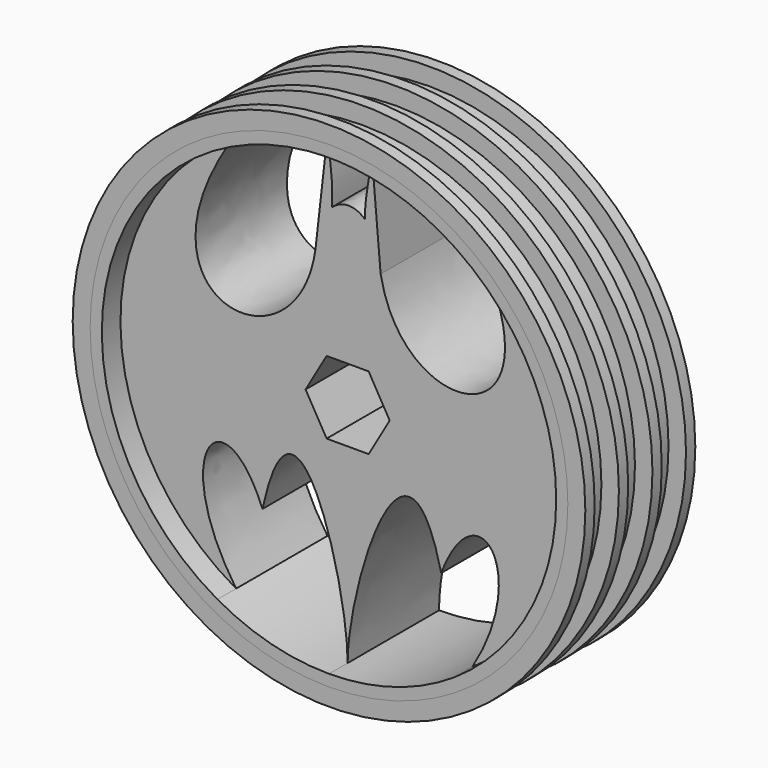
from build123d import *

# Parameters (mm, degrees)
F1_DEPTH    = 12.446
F0_R        = 27.94
F0_R_2      = 26.035
F2_DEPTH    = 1.27
F3_START    = 4.572
F3_DEPTH    = 1.27
F4_DEPTH    = 14.986
F5_START    = 3.302
F3_FACE_R   = 27.94
F3_FACE_R_2 = 26.035
F5_DEPTH    = 1.27
F6_START    = 3.302
F5_FACE_R   = 27.94
F5_FACE_R_2 = 26.035
F6_DEPTH    = 1.27


with BuildPart() as f1:
    # F0 (on Front) → F1 (new body)
    with BuildSketch(Plane.XZ):
        with BuildLine():
            ThreePointArc((13.6006918445, -20.6960480854), (21.7959441012, -11.7576377617), (24.765, 0))
            ThreePointArc((24.765, 0), (21.8531100927, 11.6510430553), (13.8022053886, 20.5622068712))
            add(Edge.make_bspline(
                [(3.5946532153, 13.7332966551), (6.1344653368, 0), (24.5575599352, 3.1986676959), (13.8022053886, 20.5622068712)],
                knots=[0, 0, 0, 0, 12.281210694, 12.281210694, 12.281210694, 12.281210694], degree=3))
            Line((3.5946532153, 13.7332966551), (2.6568462787, 24.6220712543))
            add(Edge.make_bspline(
                [(1.9077589968, 18.4080451727), (1.7903919725, 19.9296433051), (2.2836191988, 22.1618624223), (2.6568462787, 24.6220712543)],
                knots=[0, 0, 0, 0, 6.2590136522, 6.2590136522, 6.2590136522, 6.2590136522], degree=3))
            add(Edge.make_bspline(
                [(-1.729455471, 18.4080451727), (-0.5628003568, 19.4185874348), (0.7936018965, 19.4185874348), (1.9077589968, 18.4080451727)],
                knots=[0, 0, 0, 0, 3.6372144678, 3.6372144678, 3.6372144678, 3.6372144678], degree=3))
            add(Edge.make_bspline(
                [(-2.2722058795, 24.6605414669), (-1.624097682, 22.0808679479), (-1.668083219, 19.9862412159), (-1.729455471, 18.4080451727)],
                knots=[0, 0, 0, 0, 6.2760089161, 6.2760089161, 6.2760089161, 6.2760089161], degree=3))
            Line((-2.2722058795, 24.6605414669), (-3.5168223549, 13.7332966551))
            add(Edge.make_bspline(
                [(-12.6788294364, 21.2732815786), (-24.615090707, 2.7207599098), (-5.5486722849, 0), (-3.5168223549, 13.7332966551)],
                knots=[0, 0, 0, 0, 11.8656540658, 11.8656540658, 11.8656540658, 11.8656540658], degree=3))
            ThreePointArc((-12.6788294364, 21.2732815786), (-24.7631711255, -0.3009664626), (-12.1580585301, -21.5751439805))
            add(Edge.make_bspline(
                [(-12.1580585301, -21.5751439805), (-19.8026022482, -10.3666265985), (-13.557408005, -2.4443626793), (-9.2811435461, -12.9933617467)],
                knots=[0, 0, 0, 0, 9.0511671145, 9.0511671145, 9.0511671145, 9.0511671145], degree=3))
            add(Edge.make_bspline(
                [(-9.2811435461, -12.9933617467), (-5.7175895199, 3.5429066589), (0, -17.0010011101), (0, -24.765)],
                knots=[0, 0, 0, 0, 14.990366663, 14.990366663, 14.990366663, 14.990366663], degree=3))
            add(Edge.make_bspline(
                [(10.1981656626, -12.80996198), (6.3884463161, 3.5731942004), (0, -17.0010011101), (0, -24.765)],
                knots=[0, 0, 0, 0, 15.7138638451, 15.7138638451, 15.7138638451, 15.7138638451], degree=3))
            add(Edge.make_bspline(
                [(13.6006918445, -20.6960480854), (20.1356708127, -9.8662643521), (14.0078831464, -2.776866026), (10.1981656626, -12.80996198)],
                knots=[0, 0, 0, 0, 8.5888030877, 8.5888030877, 8.5888030877, 8.5888030877], degree=3))
        make_face()
        Polygon((4.5827177617, 0), (2.2913588808, -3.96875), (-2.2913588808, -3.96875), (-4.5827177617, 0), (-2.2913588808, 3.96875), (2.2913588808, 3.96875), align=None, mode=Mode.SUBTRACT)
    extrude(amount=F1_DEPTH)


with BuildPart() as f2:
    # F0 (on Front) → F2 (new body)
    with BuildSketch(Plane.XZ):
        Circle(F0_R)
        Circle(F0_R_2, mode=Mode.SUBTRACT)
    extrude(amount=F2_DEPTH)


with BuildPart() as f3:
    # F0 (on Front) → F3 (new body)
    with BuildSketch(Plane.XZ.offset(F3_START)):
        Circle(F0_R)
        Circle(F0_R_2, mode=Mode.SUBTRACT)
    extrude(amount=F3_DEPTH)


with BuildPart() as f4:
    # F0 (on Front) → F4 (new body)
    with BuildSketch(Plane.XZ):
        Circle(F0_R_2)
        with BuildLine():
            ThreePointArc((13.8022053886, 20.5622068712), (21.8531100927, 11.6510430553), (24.765, 0))
            ThreePointArc((24.765, 0), (21.7959441012, -11.7576377617), (13.6006918445, -20.6960480854))
            ThreePointArc((13.6006918445, -20.6960480854), (7.0981544843, -23.7259652684), (0, -24.765))
            ThreePointArc((0, -24.765), (-6.2847746309, -23.9542654414), (-12.1580585301, -21.5751439805))
            ThreePointArc((-12.1580585301, -21.5751439805), (-24.7631711255, -0.3009664626), (-12.6788294364, 21.2732815786))
            ThreePointArc((-12.6788294364, 21.2732815786), (-7.6649687959, 23.5489591778), (-2.2722058795, 24.6605414669))
            ThreePointArc((-2.2722058795, 24.6605414669), (0.1932797157, 24.7642457578), (2.6568462787, 24.6220712543))
            ThreePointArc((2.6568462787, 24.6220712543), (8.4761854716, 23.269282431), (13.8022053886, 20.5622068712))
        make_face(mode=Mode.SUBTRACT)
    extrude(amount=F4_DEPTH)


with BuildPart() as f5:
    # F3_face (on face) → F5 (new body)
    with BuildSketch(Plane.XZ.offset(5.842).offset(F5_START)):
        Circle(F3_FACE_R)
        Circle(F3_FACE_R_2, mode=Mode.SUBTRACT)
    extrude(amount=F5_DEPTH)


with BuildPart() as f6:
    # F5_face (on face) → F6 (new body)
    with BuildSketch(Plane.XZ.offset(10.414).offset(F6_START)):
        Circle(F5_FACE_R)
        Circle(F5_FACE_R_2, mode=Mode.SUBTRACT)
    extrude(amount=F6_DEPTH)


solid = Compound([f1.part, f2.part, f3.part, f4.part, f5.part, f6.part])
